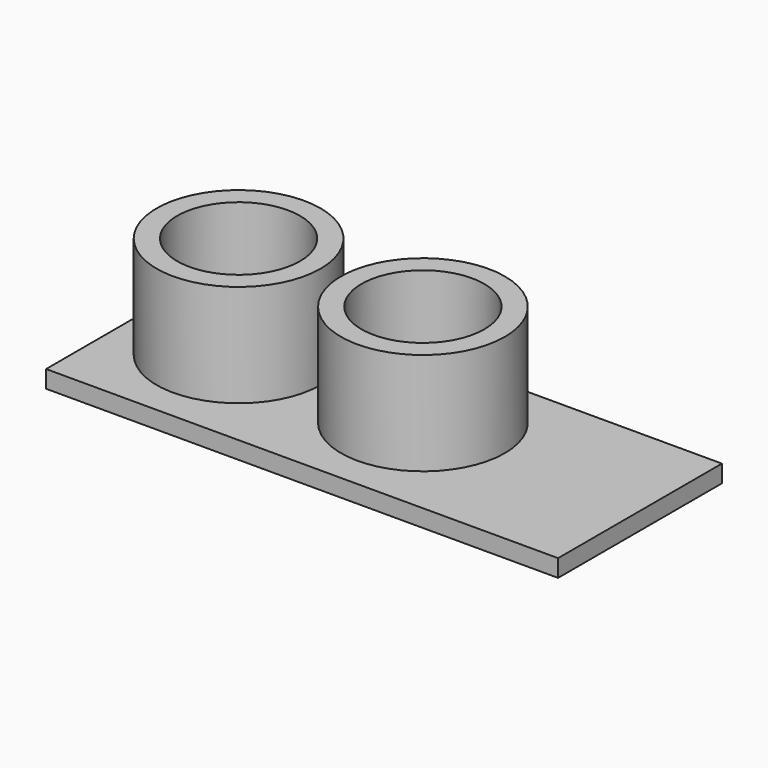
from build123d import *

# Parameters (mm, degrees)
F0_W     = 50
F0_H     = 20
F0_R     = 6
F1_DEPTH = 1.7
F2_R     = 8
F2_R_2   = 6
F3_DEPTH = 10


with BuildPart() as f1:
    # F0 (on Top) → F1 (new body)
    with BuildSketch(Plane.XY):
        with Locations((25, 10)):
            Rectangle(F0_W, F0_H)
        with Locations((10, 11)):
            Circle(F0_R, mode=Mode.SUBTRACT)
        with Locations((28, 11)):
            Circle(F0_R, mode=Mode.SUBTRACT)
    extrude(amount=F1_DEPTH)

    # F2 (on face) → F3 (join)
    with BuildSketch(Plane.XY.offset(1.7)):
        with Locations((10, 11)):
            Circle(F2_R)
        with Locations((10, 11)):
            Circle(F2_R_2, mode=Mode.SUBTRACT)
        with Locations((28, 11)):
            Circle(F2_R)
        with Locations((28, 11)):
            Circle(F2_R_2, mode=Mode.SUBTRACT)
    extrude(amount=F3_DEPTH)


solid = f1.part
